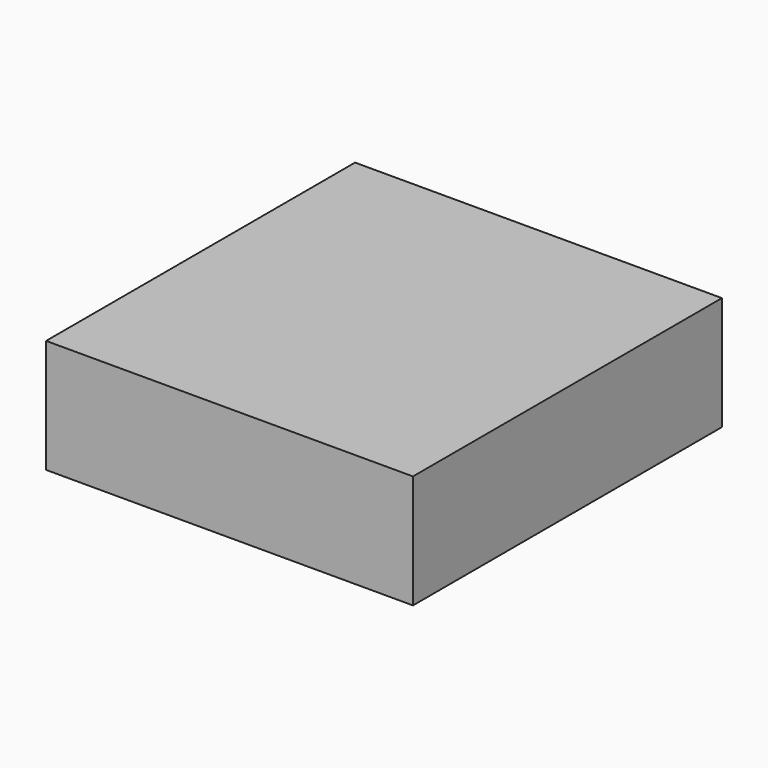
from build123d import *

# Parameters (mm, degrees)
F0_W     = 64.6
F0_H     = 68
F1_DEPTH = 20
F3_DEPTH = 6


with BuildPart() as f1:
    # F0 (on Top) → F1 (new body)
    with BuildSketch(Plane.XY):
        with Locations((19.1144577392, 24)):
            Rectangle(F0_W, F0_H)
    extrude(amount=F1_DEPTH)

    # F2 (on face) → F3 (cut)
    with BuildSketch(Plane(origin=(0, 0, 0), x_dir=(1, 0, 0), z_dir=(0, 0, -1))):
        with BuildLine():
            ThreePointArc((48.4144577392, 8), (47.707350958, 7.7071067812), (47.4144577392, 7))
            Line((47.4144577392, 7), (48.4144577392, 7))
            Line((48.4144577392, 7), (48.4144577392, 8))
        make_face()
        with BuildLine():
            ThreePointArc((49.1215645203, 7.7071067812), (48.7971411715, 7.9238795325), (48.4144577392, 8))
            Line((48.4144577392, 8), (48.4144577392, 7))
            Line((48.4144577392, 7), (49.1215645203, 7.7071067812))
        make_face()
        with BuildLine():
            Line((49.1215645203, 7.7071067812), (48.4144577392, 7))
            Line((48.4144577392, 7), (49.4144577392, 7))
            ThreePointArc((49.4144577392, 7), (49.3383372717, 7.3826834324), (49.1215645203, 7.7071067812))
        make_face()
        with BuildLine():
            ThreePointArc((49.4144577392, -55), (49.1215645203, -54.2928932188), (48.4144577392, -54))
            Line((48.4144577392, -54), (48.4144577392, -55))
            Line((48.4144577392, -55), (49.4144577392, -55))
        make_face()
        with BuildLine():
            ThreePointArc((49.1215645203, -55.7071067812), (49.3383372717, -55.3826834324), (49.4144577392, -55))
            Line((49.4144577392, -55), (48.4144577392, -55))
            Line((48.4144577392, -55), (49.1215645203, -55.7071067812))
        make_face()
        with BuildLine():
            Line((48.4144577392, -55), (48.4144577392, -56))
            ThreePointArc((48.4144577392, -56), (48.7971411715, -55.9238795325), (49.1215645203, -55.7071067812))
            Line((49.1215645203, -55.7071067812), (48.4144577392, -55))
        make_face()
        with BuildLine():
            Line((-10.1855422608, 7), (-9.1855422608, 7))
            ThreePointArc((-9.1855422608, 7), (-9.4784354797, 7.7071067812), (-10.1855422608, 8))
            Line((-10.1855422608, 8), (-10.1855422608, 7))
        make_face()
        with BuildLine():
            Line((-10.1855422608, 7), (-10.1855422608, 8))
            ThreePointArc((-10.1855422608, 8), (-10.5682256932, 7.9238795325), (-10.892649042, 7.7071067812))
            Line((-10.892649042, 7.7071067812), (-10.1855422608, 7))
        make_face()
        with BuildLine():
            Line((-11.1855422608, 7), (-10.1855422608, 7))
            Line((-10.1855422608, 7), (-10.892649042, 7.7071067812))
            ThreePointArc((-10.892649042, 7.7071067812), (-11.1094217934, 7.3826834324), (-11.1855422608, 7))
        make_face()
        with BuildLine():
            ThreePointArc((-10.1855422608, -56), (-9.4784354797, -55.7071067812), (-9.1855422608, -55))
            Line((-9.1855422608, -55), (-10.1855422608, -55))
            Line((-10.1855422608, -55), (-10.1855422608, -56))
        make_face()
        with BuildLine():
            Line((-10.1855422608, -56), (-10.1855422608, -55))
            Line((-10.1855422608, -55), (-10.892649042, -55.7071067812))
            ThreePointArc((-10.892649042, -55.7071067812), (-10.5682256932, -55.9238795325), (-10.1855422608, -56))
        make_face()
        with BuildLine():
            Line((-10.1855422608, -55), (-11.1855422608, -55))
            ThreePointArc((-11.1855422608, -55), (-11.1094217934, -55.3826834324), (-10.892649042, -55.7071067812))
            Line((-10.892649042, -55.7071067812), (-10.1855422608, -55))
        make_face()
    extrude(amount=-F3_DEPTH, mode=Mode.SUBTRACT)


solid = f1.part
